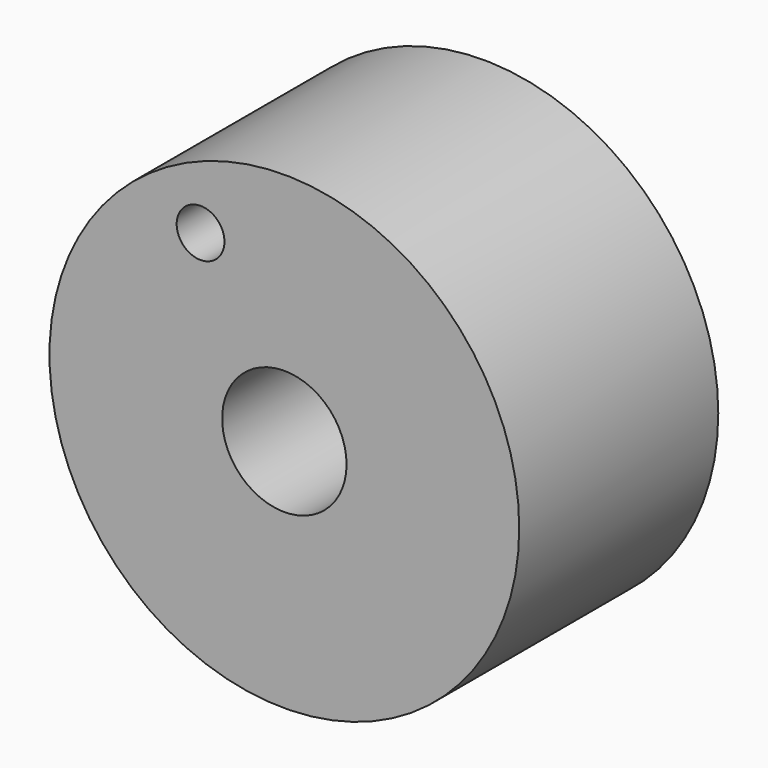
from build123d import *

# Parameters (mm, degrees)
F0_R     = 5.9944
F0_R_2   = 1.5875
F0_R_3   = 0.609414
F1_DEPTH = 6.35


with BuildPart() as f1:
    # F0 (on Front) → F1 (new body)
    with BuildSketch(Plane.XZ):
        Circle(F0_R)
        Circle(F0_R_2, mode=Mode.SUBTRACT)
        with Locations((-2.138784, 3.988722)):
            Circle(F0_R_3, mode=Mode.SUBTRACT)
    extrude(amount=F1_DEPTH)


solid = f1.part
